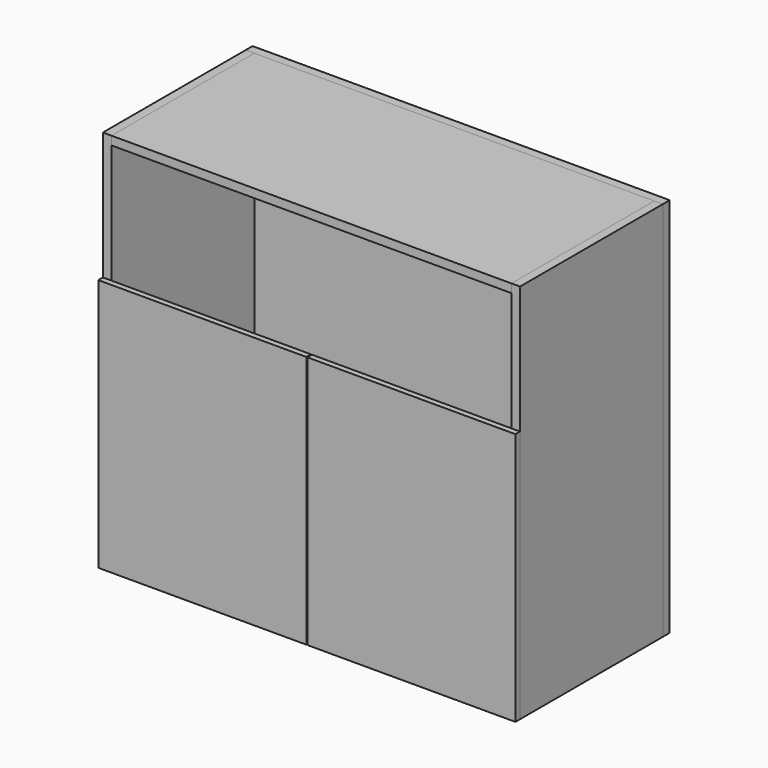
from build123d import *

# Parameters (mm, degrees)
F1_DEPTH  = 800
F2_W      = 840
F2_H      = 375
F3_DEPTH  = 18
F5_DEPTH  = 18
F6_W      = 840
F6_H      = 18
F7_DEPTH  = 18
F8_W      = 419
F8_H      = 532
F8_W_2    = 18
F9_DEPTH  = 12
F8_W_3    = 437
F10_W     = 375
F10_H     = 800
F11_DEPTH = 12


with BuildPart() as f1:
    # F0 (on Top) → F1 (new body)
    with BuildSketch(Plane.XY):
        Polygon((-438, -187.5), (-420, -187.5), (-420, -169.5), (-420, 169.5), (-420, 187.5), (-438, 187.5), align=None)
    extrude(amount=F1_DEPTH)


with BuildPart() as f1b:
    # F0 (on Top) → F1, piece 2 (new body)
    with BuildSketch(Plane.XY):
        Polygon((420, -187.5), (438, -187.5), (438, 187.5), (420, 187.5), (420, 169.5), (420, -169.5), align=None)
    extrude(amount=F1_DEPTH)


with BuildPart() as f3:
    # F2 (on face) → F3 (new body)
    with BuildSketch(Plane.XY.offset(800)):
        Rectangle(F2_W, F2_H)
    extrude(amount=-F3_DEPTH)


with BuildPart() as f5:
    # F4 (on face) → F5 (new body)
    with BuildSketch(Plane.XY):
        Polygon((-420, -169.5), (-420, -187.5), (420, -187.5), (420, 187.5), (-420, 187.5), (-420, 169.5), align=None)
    extrude(amount=F5_DEPTH)


with BuildPart() as f7:
    # F6 (on face) → F7 (new body)
    with BuildSketch(Plane(origin=(0, 187.5, 0), x_dir=(-1, 0, 0), z_dir=(0, 1, 0))):
        Polygon((-420, 800), (-438, 800), (-438, 0), (438, 0), (438, 800), (420, 800), (420, 782), (-420, 782), align=None)
        with Locations((0, 791)):
            Rectangle(F6_W, F6_H)
    extrude(amount=F7_DEPTH)


with BuildPart() as f9:
    # F8 (on face) → F9 (new body)
    with BuildSketch(Plane.XZ.offset(187.5)):
        with Locations((-210.5, 266)):
            Rectangle(F8_W, F8_H)
        with Locations((-429, 266)):
            Rectangle(F8_W_2, F8_H)
    extrude(amount=F9_DEPTH)


with BuildPart() as f9b:
    # F8 (on face) → F9, piece 2 (new body)
    with BuildSketch(Plane.XZ.offset(187.5)):
        with Locations((219.5, 266)):
            Rectangle(F8_W_3, F8_H)
    extrude(amount=F9_DEPTH)


with BuildPart() as f11:
    # F10 (on face) → F11 (new body)
    with BuildSketch(Plane.YZ.offset(438)):
        with Locations((0, 400)):
            Rectangle(F10_W, F10_H)
    extrude(amount=F11_DEPTH)


solid = Compound([f1.part, f1b.part, f3.part, f5.part, f7.part, f9.part, f9b.part])
